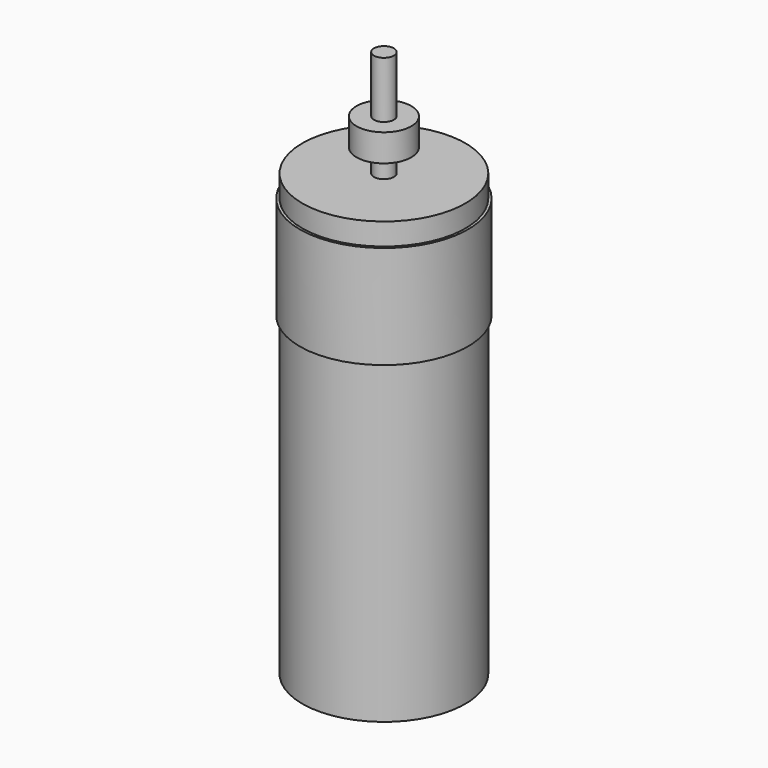
from build123d import *


with BuildPart() as part:
    # Sketch → Revolution (revolve)
    with BuildSketch(Plane.XZ):
        Polygon((-32.75, 176.98), (-32.75, 168.13), (-33.8, 168.13), (-33.8, 126.73), (-32.75, 126.73), (-32.75, 0), (0, 0), (0, 219.89), (-4, 219.89), (-4, 197.2), (-11, 197.2), (-11, 186.2), (-4, 186.2), (-4, 176.98), align=None)
    revolve(axis=Axis((0, 0, 0), (0, 0, 1)))


solid = part.part
